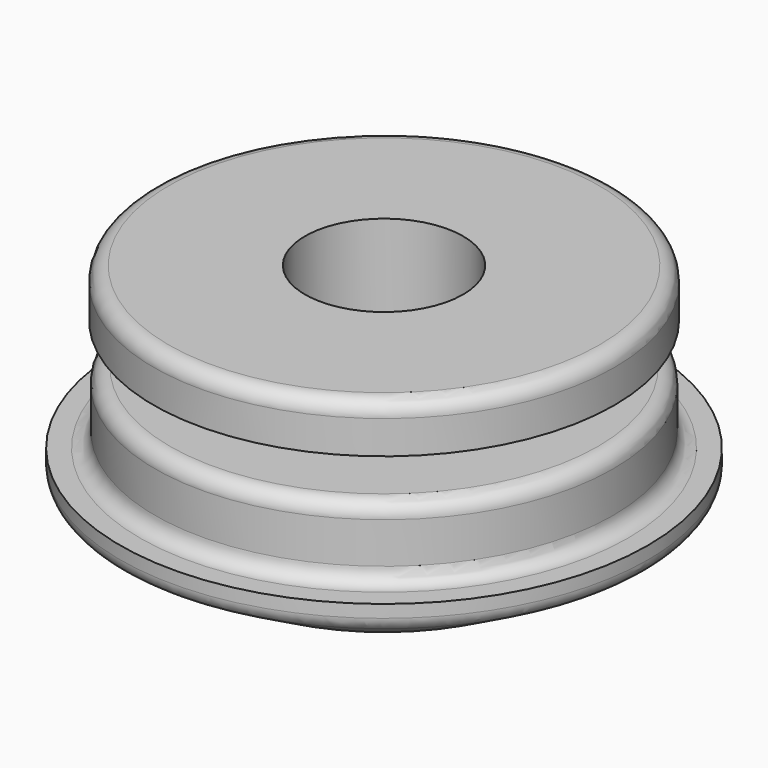
from build123d import *

# Parameters (mm, degrees)
F2_R = 2
F3_R = 2


with BuildPart() as f1:
    # F0 (on Front) → F1 (revolve)
    with BuildSketch(Plane.XZ):
        Polygon((10.547672, 36.469921), (10.547672, 5.541999), (23.41941, 5.541999), (35.218503, 12.156641), (35.218503, 15.017027), (30.570375, 15.017027), (30.570375, 24.492055), (19.486379, 24.492055), (19.486379, 30.034054), (30.749151, 30.034054), (30.749151, 36.469921), align=None)
    revolve(axis=Axis((0, 0, 5.541999), (0, 0, -1)))

    # F2
    f2_edges = [f1.edges().sort_by_distance(p)[0] for p in [
        (-30.749151, 0, 36.469921),
        (-30.570375, 0, 15.017027),
        (-30.570375, 0, 24.492055),
        (30.570375, 0, 19.754541),
    ]]
    fillet(f2_edges, radius=F2_R)

    # F3
    f3_edges = [f1.edges().sort_by_distance(p)[0] for p in [
        (-35.218503, 0, 12.156641),
        (-23.41941, 0, 5.541999),
        (-10.547672, 0, 5.541999),
    ]]
    fillet(f3_edges, radius=F3_R)


solid = f1.part
